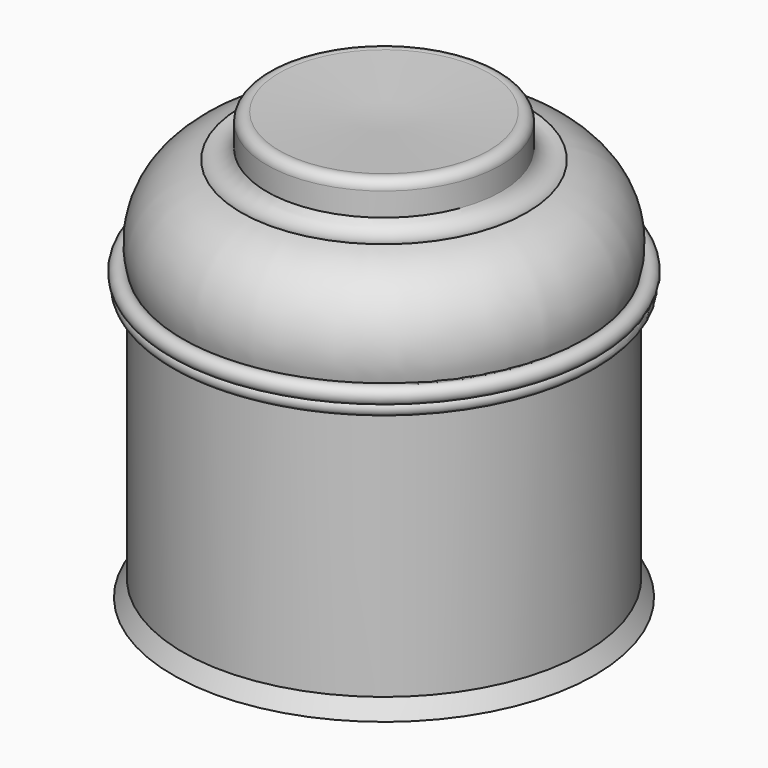
from build123d import *


with BuildPart() as f1:
    # F0 (on Front) → F1 (revolve)
    with BuildSketch(Plane.XZ):
        with BuildLine():
            Line((0, 59.8456598818), (-30.0837606192, 58.2454614341))
            Line((-30.0837606192, 58.2454614341), (-30.0837606192, -62.7296641469))
            Line((-30.0837606192, -62.7296641469), (30.4038003087, -62.7296641469))
            Line((30.4038003087, -62.7296641469), (27.5234412402, -57.9290613532))
            Line((27.5234412402, -57.9290613532), (27.5234412402, 14.7200208157))
            ThreePointArc((27.5234412402, 14.7200208157), (30.4004199378, 14.7169815913), (30.7114869572, 17.577095745))
            ThreePointArc((30.7114869572, 17.577095745), (31.0903859196, 21.1238603503), (27.5234412402, 21.1208201945))
            ThreePointArc((27.5234412402, 21.1208201945), (25.0616587932, 38.0733392994), (10.8813634142, 47.6841405034))
            ThreePointArc((10.8813634142, 47.6841405034), (6.5696464282, 47.5111112465), (3.5204414744, 50.5645014346))
            Line((3.5204414744, 50.5645014346), (3.5204414744, 57.2853423655))
            ThreePointArc((3.5204414744, 57.2853423655), (2.4121095907, 59.4618495421), (0, 59.8456598818))
        make_face()
        with BuildLine():
            ThreePointArc((27.5234412402, 17.9204214364), (29.1941336518, 18.4606949431), (30.7114869572, 17.577095745))
            ThreePointArc((30.7114869572, 17.577095745), (29.0516109412, 17.1372608727), (27.5234412402, 17.9204214364))
        make_face(mode=Mode.SUBTRACT)
        with BuildLine():
            ThreePointArc((27.5234412402, 17.9204214364), (29.0516109412, 17.1372608727), (30.7114869572, 17.577095745))
            ThreePointArc((30.7114869572, 17.577095745), (29.1941336518, 18.4606949431), (27.5234412402, 17.9204214364))
        make_face()
    revolve(axis=Axis((-30.0837606192, 0, -2.2421013564), (0, 0, -1)))


solid = f1.part
